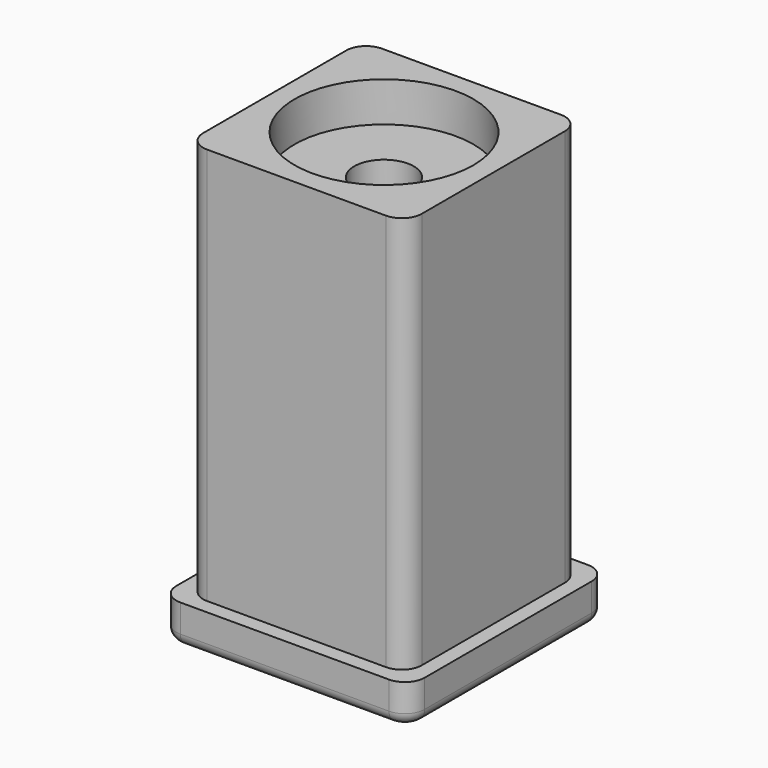
from build123d import *

# Parameters (mm, degrees)
F0_W           = 13.97
F0_H           = 13.97
F1_DEPTH       = 25.4
F2_R           = 5.715
F3_DEPTH       = 2.54
F5_R           = 1.27
F6_W           = 15.875
F6_H           = 15.875
F7_DEPTH       = 2.54
F8_R           = 1.27
F9_R           = 0.762
F4_R           = 1.905
F10_DEPTH      = 25.401
F10_DEPTH_BACK = 2.541


with BuildPart() as f1:
    # F0 (on Top) → F1 (new body)
    with BuildSketch(Plane.XY):
        Rectangle(F0_W, F0_H)
    extrude(amount=F1_DEPTH)

    # F2 (on face) → F3 (cut)
    with BuildSketch(Plane.XY.offset(25.4)):
        Circle(F2_R)
    extrude(amount=-F3_DEPTH, mode=Mode.SUBTRACT)

    # F5
    f5_edges = [f1.edges().sort_by_distance(p)[0] for p in [
        (-6.985, 6.985, 12.7),
        (-6.985, -6.985, 12.7),
        (6.985, 6.985, 12.7),
        (6.985, -6.985, 12.7),
    ]]
    fillet(f5_edges, radius=F5_R)

    # F6 (on face) → F7 (join)
    with BuildSketch(Plane(origin=(0, 0, 0), x_dir=(1, 0, 0), z_dir=(0, 0, -1))):
        Rectangle(F6_W, F6_H)
    extrude(amount=F7_DEPTH)

    # F8
    f8_edges = [f1.edges().sort_by_distance(p)[0] for p in [
        (7.9375, -7.9375, -1.27),
        (-7.9375, -7.9375, -1.27),
        (-7.9375, 7.9375, -1.27),
        (7.9375, 7.9375, -1.27),
    ]]
    fillet(f8_edges, radius=F8_R)

    # F9
    f9_edges = [f1.edges().sort_by_distance(p)[0] for p in [
        (0, -7.9375, -2.54),
    ]]
    fillet(f9_edges, radius=F9_R)

    # F4 (on face) → F10 (cut, two sides)
    with BuildSketch(Plane(origin=(0, 0, 0), x_dir=(1, 0, 0), z_dir=(0, 0, -1))) as f10_sk:
        Circle(F4_R)
    extrude(amount=-F10_DEPTH, mode=Mode.SUBTRACT)
    extrude(f10_sk.sketch, amount=F10_DEPTH_BACK, mode=Mode.SUBTRACT)


solid = f1.part
